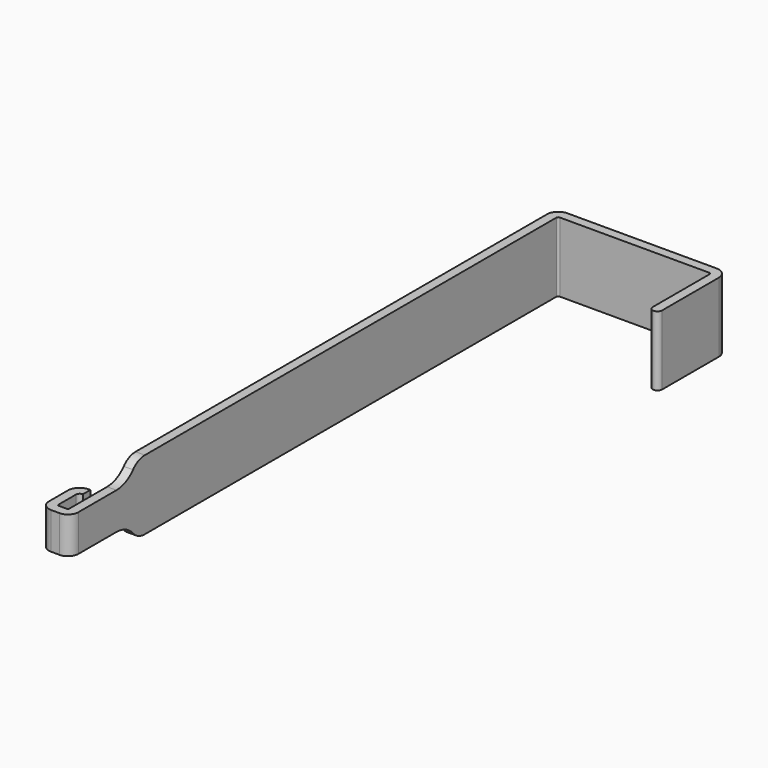
from build123d import *

# Parameters (mm, degrees)
F1_DEPTH = 9
F3_DEPTH = 10
F4_R     = 5


with BuildPart() as f1:
    # F0 (on Top) → F1 (new body, symmetric)
    with BuildSketch(Plane.XY):
        with BuildLine():
            ThreePointArc((42, -21.2), (43.2, -22.4), (44.4, -21.2))
            Line((44.4, -21.2), (44.4, -2.9))
            ThreePointArc((44.4, -2.9), (43.5506096654, -0.8493903346), (41.5, 0))
            Line((41.5, 0), (2.9, 0))
            ThreePointArc((2.9, 0), (0.8493903346, -0.8493903346), (0, -2.9))
            Line((0, -2.9), (0, -157.3))
            ThreePointArc((0, -157.3), (-0.0878679656, -157.5121320344), (-0.3, -157.6))
            Line((-0.3, -157.6), (-2.5, -157.6))
            ThreePointArc((-2.5, -157.6), (-2.7121320344, -157.5121320344), (-2.8, -157.3))
            Line((-2.8, -157.3), (-2.8, -151.6))
            ThreePointArc((-2.8, -151.6), (-2.5071067812, -150.8928932188), (-1.8, -150.6))
            Line((-1.8, -150.6), (-1.8, -148.2))
            Line((-1.8, -148.2), (-2.2, -148.2))
            ThreePointArc((-2.2, -148.2), (-4.3213203436, -149.0786796564), (-5.2, -151.2))
            Line((-5.2, -151.2), (-5.2, -157.3))
            ThreePointArc((-5.2, -157.3), (-4.4091883092, -159.2091883092), (-2.5, -160))
            Line((-2.5, -160), (-0.3, -160))
            ThreePointArc((-0.3, -160), (1.6091883092, -159.2091883092), (2.4, -157.3))
            Line((2.4, -157.3), (2.4, -2.9))
            ThreePointArc((2.4, -2.9), (2.5464466094, -2.5464466094), (2.9, -2.4))
            Line((2.9, -2.4), (41.5, -2.4))
            ThreePointArc((41.5, -2.4), (41.8535533906, -2.5464466094), (42, -2.9))
            Line((42, -2.9), (42, -21.2))
        make_face()
    extrude(amount=F1_DEPTH, both=True)

    # F2 (on Right) → F3 (cut, symmetric)
    with BuildSketch(Plane.YZ):
        with BuildLine():
            Line((-163, 4.75), (-145, 4.75))
            ThreePointArc((-145, 4.75), (-140.0502525317, 6.8002525317), (-138, 11.75))
            Line((-138, 11.75), (-168, 11.75))
            Line((-168, 11.75), (-168, -11.75))
            Line((-168, -11.75), (-138, -11.75))
            ThreePointArc((-138, -11.75), (-140.0502525317, -6.8002525317), (-145, -4.75))
            Line((-145, -4.75), (-163, -4.75))
            Line((-163, -4.75), (-163, 4.75))
        make_face()
    extrude(amount=F3_DEPTH, both=True, mode=Mode.SUBTRACT)

    # F4
    f4_edges = [f1.edges().sort_by_distance(p)[0] for p in [
        (1.2, -138.562803, 9),
        (1.2, -138.562803, -9),
    ]]
    fillet(f4_edges, radius=F4_R)


solid = f1.part
